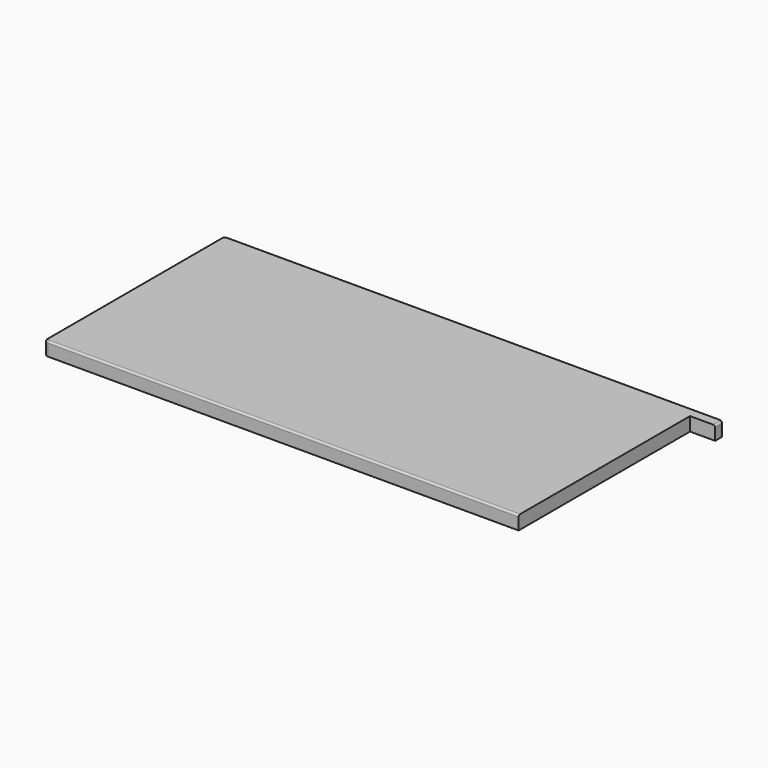
from build123d import *

# Parameters (mm, degrees)
F1_DEPTH = 38
F2_R     = 5


with BuildPart() as f1:
    # F0 (on Top) → F1 (new body)
    with BuildSketch(Plane.XY):
        with BuildLine():
            Line((730.000074, 356.940193), (-639.999926, 356.940193))
            ThreePointArc((-639.999926, 356.940193), (-647.070994, 354.011261), (-649.999926, 346.940193))
            Line((-649.999926, 346.940193), (-649.999926, -259.059807))
            ThreePointArc((-649.999926, -259.059807), (-647.070994, -266.130875), (-639.999926, -269.059807))
            Line((-639.999926, -269.059807), (670.000074, -269.059807))
            Line((670.000074, -269.059807), (670.000074, 326.940193))
            Line((670.000074, 326.940193), (740.000074, 326.940193))
            Line((740.000074, 326.940193), (740.000074, 346.940193))
            ThreePointArc((740.000074, 346.940193), (737.071142, 354.011261), (730.000074, 356.940193))
        make_face()
    extrude(amount=F1_DEPTH)

    # F2
    f2_edges = [f1.edges().sort_by_distance(p)[0] for p in [
        (-649.999926, 43.940193, 38),
    ]]
    fillet(f2_edges, radius=F2_R)


solid = f1.part
